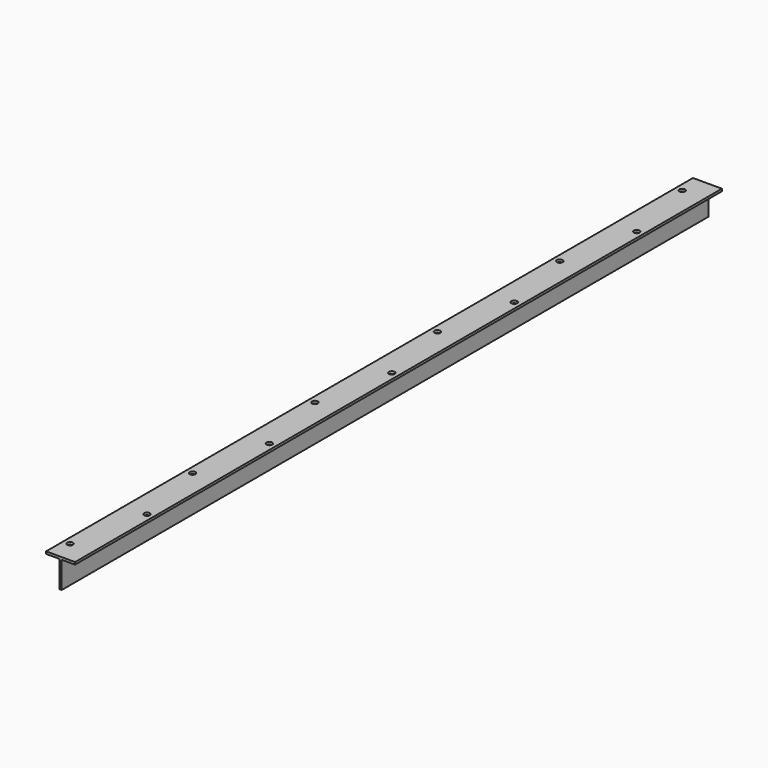
from build123d import *

# Parameters (mm, degrees)
F1_DEPTH = 558
F3_D     = 4


with BuildPart() as f1:
    # F0 (on Front) → F1 (new body)
    with BuildSketch(Plane.XZ):
        Polygon((10, 0), (-10, 0), (-10, -1.6), (-0.8, -1.6), (-0.8, -20), (0.8, -20), (0.8, -1.6), (10, -1.6), align=None)
    extrude(amount=F1_DEPTH)

    # F3 (through all)
    with Locations(Plane.XY):
        with Locations((-5.4, -543), (5.4, -490.2), (-5.4, -437.4), (5.4, -384.6), (-5.4, -331.8), (5.4, -279), (-5.4, -226.2), (5.4, -173.4), (-5.4, -120.6), (5.4, -67.8), (-5.4, -15)):
            Hole(F3_D / 2)


solid = f1.part
